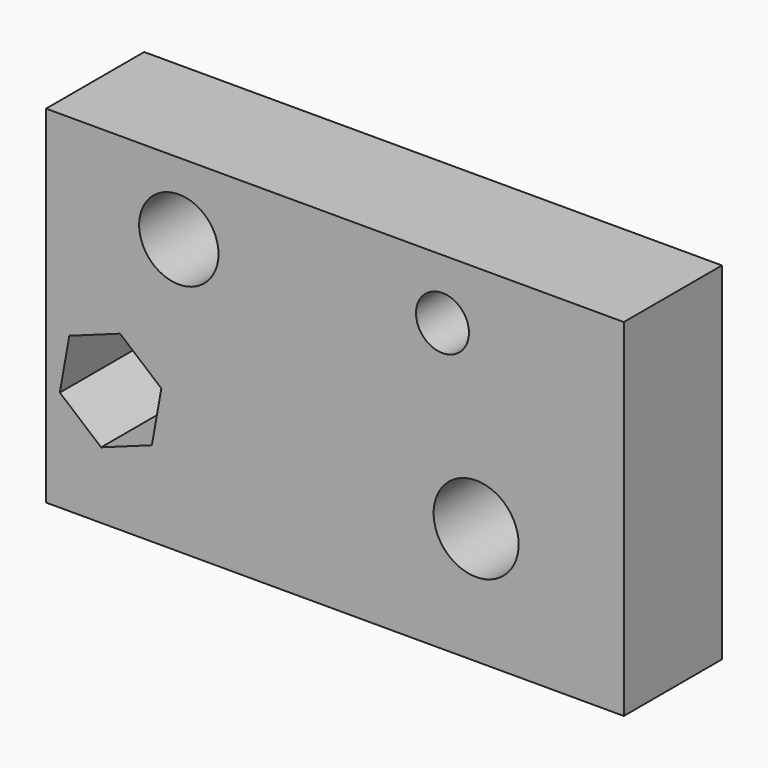
from build123d import *

# Parameters (mm, degrees)
F0_W     = 103.660759
F0_H     = 62.23
F0_R     = 7.629679
F0_R_2   = 7.120381
F0_R_3   = 4.750212
F1_DEPTH = 22


with BuildPart() as f1:
    # F0 (on Front) → F1 (new body)
    with BuildSketch(Plane.XZ):
        with Locations((5.032076, -7.128774)):
            Rectangle(F0_W, F0_H)
        Polygon((-26.121348, -13.480947), (-27.821429, -23.01085), (-36.924608, -26.303489), (-44.327706, -20.066224), (-42.627625, -10.53632), (-33.524446, -7.243682), align=None, mode=Mode.SUBTRACT)
        with Locations((30.360186, -17.276794)):
            Circle(F0_R, mode=Mode.SUBTRACT)
        with Locations((-22.979811, 11.070566)):
            Circle(F0_R_2, mode=Mode.SUBTRACT)
        with Locations((24.321698, 13.251132)):
            Circle(F0_R_3, mode=Mode.SUBTRACT)
    extrude(amount=F1_DEPTH)


solid = f1.part
